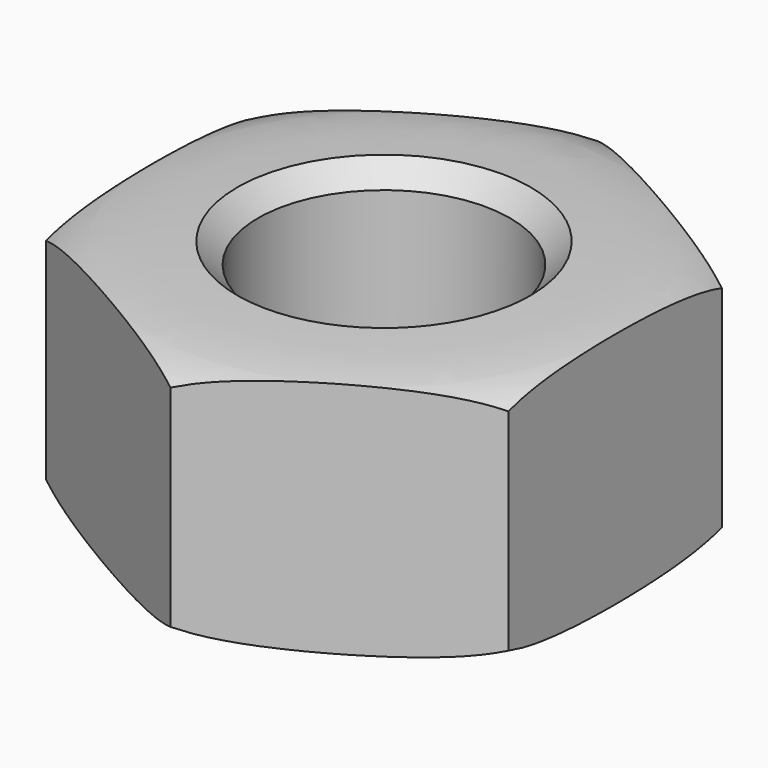
from build123d import *

# Parameters (mm, degrees)
F0_R     = 1.5
F1_DEPTH = 1.5
F2_SIZE  = 0.25
F3_SIZE  = 0.25


with BuildPart() as f1:
    # F0 (on Top) → F1 (new body, symmetric)
    with BuildSketch(Plane.XY):
        Polygon((2.75, -1.5877132403), (2.75, 1.5877132403), (0, 3.1754264805), (-2.75, 1.5877132403), (-2.75, -1.5877132403), (0, -3.1754264805), align=None)
        Circle(F0_R, mode=Mode.SUBTRACT)
    extrude(amount=F1_DEPTH, both=True)

    # F2
    f2_edges = [f1.edges().sort_by_distance(p)[0] for p in [
        (-1.5, 0, 1.5),
    ]]
    chamfer(f2_edges, length=F2_SIZE)

    # F3
    f3_edges = [f1.edges().sort_by_distance(p)[0] for p in [
        (-1.5, 0, -1.5),
    ]]
    chamfer(f3_edges, length=F3_SIZE)

    # F4 (on Right) → F5 (revolve, cut)
    with BuildSketch(Plane.YZ):
        with BuildLine():
            Line((0, 1.9006831571), (0, 1.5064009931))
            add(Edge.make_bspline(
                [(0, 1.5064009931), (1.5686472961, 1.5189287501), (1.4849199585, 1.48103808), (3.2688938081, 1.4612684026), (3.4663493279, 0.9027514607)],
                knots=[0, 0, 0, 0, 0.5303558422, 1, 1, 1, 1], degree=3))
            Line((3.4663493279, 0.9027514607), (3.4663493279, -0.9027514607))
            add(Edge.make_bspline(
                [(0, -1.5064009931), (1.5686472961, -1.5189287501), (1.4849199585, -1.48103808), (3.2688938081, -1.4612684026), (3.4663493279, -0.9027514607)],
                knots=[0, 0, 0, 0, 0.5303558422, 1, 1, 1, 1], degree=3))
            Line((0, -1.5064009931), (0, -1.8480797298))
            Line((0, -1.8480797298), (4.1224174201, -1.8480797298))
            Line((4.1224174201, -1.8480797298), (4.1224174201, 1.9006831571))
            Line((4.1224174201, 1.9006831571), (0, 1.9006831571))
        make_face()
    revolve(axis=Axis((0, 0, 0), (0, 0, -1)), mode=Mode.SUBTRACT)


solid = f1.part
